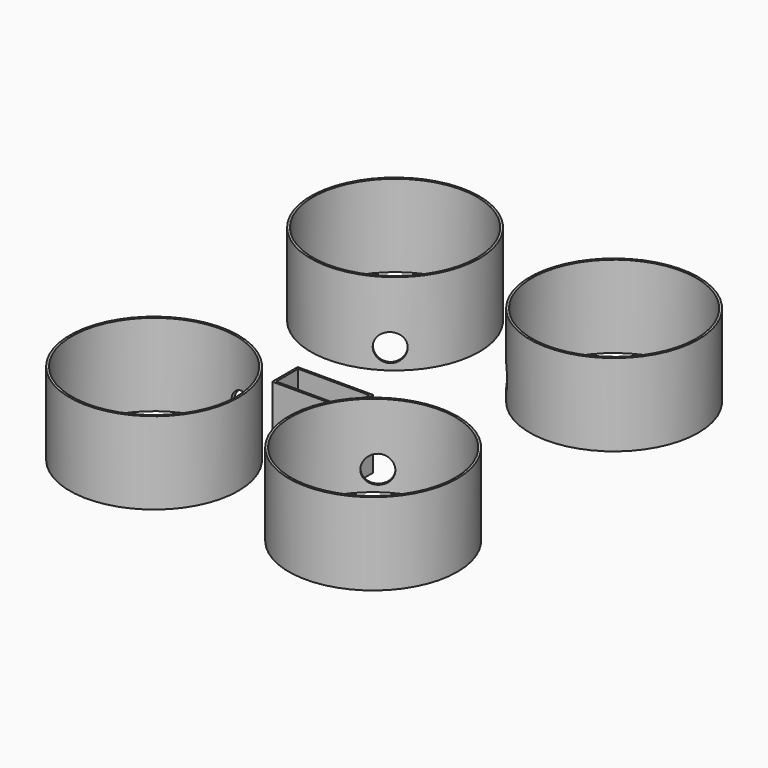
from build123d import *

# Parameters (mm, degrees)
F0_R          = 30.8
F0_R_2        = 30
F1_DEPTH      = 30
F4_R          = 5
F5_DEPTH      = 60
F5_DEPTH_BACK = 60
F7_R          = 5
F8_DEPTH      = 50
F8_DEPTH_BACK = 50
F9_W          = 27.6
F9_H          = 11.6
F9_W_2        = 26
F9_H_2        = 10
F10_DEPTH     = 25


with BuildPart() as f1:
    # F0 (on Top) → F1 (new body)
    with BuildSketch(Plane.XY):
        with Locations((-40, 55)):
            Circle(F0_R)
        with Locations((-40, 55)):
            Circle(F0_R_2, mode=Mode.SUBTRACT)
    extrude(amount=F1_DEPTH)


with BuildPart() as f1b:
    # F0 (on Top) → F1, piece 2 (new body)
    with BuildSketch(Plane.XY):
        with Locations((40, 55)):
            Circle(F0_R)
        with Locations((40, 55)):
            Circle(F0_R_2, mode=Mode.SUBTRACT)
    extrude(amount=F1_DEPTH)


with BuildPart() as f1c:
    # F0 (on Top) → F1, piece 3 (new body)
    with BuildSketch(Plane.XY):
        with Locations((-40, -55)):
            Circle(F0_R)
        with Locations((-40, -55)):
            Circle(F0_R_2, mode=Mode.SUBTRACT)
    extrude(amount=F1_DEPTH)


with BuildPart() as f1d:
    # F0 (on Top) → F1, piece 4 (new body)
    with BuildSketch(Plane.XY):
        with Locations((40, -55)):
            Circle(F0_R)
        with Locations((40, -55)):
            Circle(F0_R_2, mode=Mode.SUBTRACT)
    extrude(amount=F1_DEPTH)


with BuildPart() as f5_tool:
    # F4 (on line) → F5 (new body, two sides)
    with BuildSketch(Plane(origin=(0, 0, 0), x_dir=(-0.8090169944, -0.5877852523, 0), z_dir=(-0.5877852523, 0.8090169944, 0))) as f5_sk:
        with Locations((0, 7.3466342874)):
            Circle(F4_R)
    extrude(amount=-F5_DEPTH)
    extrude(f5_sk.sketch, amount=F5_DEPTH_BACK)


with BuildPart() as f1_1:
    add(f1.part)

    # F5: cut by f5_tool
    add(f5_tool.part, mode=Mode.SUBTRACT)


with BuildPart() as f1d_1:
    add(f1d.part)

    # F5: cut by f5_tool
    add(f5_tool.part, mode=Mode.SUBTRACT)


with BuildPart() as f8_tool:
    # F7 (on line) → F8 (new body, two sides)
    with BuildSketch(Plane(origin=(0, 0, 0), x_dir=(-0.8090169944, 0.5877852523, 0), z_dir=(0.5877852523, 0.8090169944, 0))) as f8_sk:
        with Locations((8.8217863813, 8.5488967597)):
            Circle(F7_R)
    extrude(amount=-F8_DEPTH)
    extrude(f8_sk.sketch, amount=F8_DEPTH_BACK)


with BuildPart() as f1b_1:
    add(f1b.part)

    # F8: cut by f8_tool
    add(f8_tool.part, mode=Mode.SUBTRACT)


with BuildPart() as f1c_1:
    add(f1c.part)

    # F8: cut by f8_tool
    add(f8_tool.part, mode=Mode.SUBTRACT)


with BuildPart() as f10:
    # F9 (on Top) → F10 (new body)
    with BuildSketch(Plane.XY):
        with Locations((0, -28)):
            Rectangle(F9_W, F9_H)
        with Locations((0, -28)):
            Rectangle(F9_W_2, F9_H_2, mode=Mode.SUBTRACT)
    extrude(amount=F10_DEPTH)


solid = Compound([f1_1.part, f1d_1.part, f1b_1.part, f1c_1.part, f10.part])
